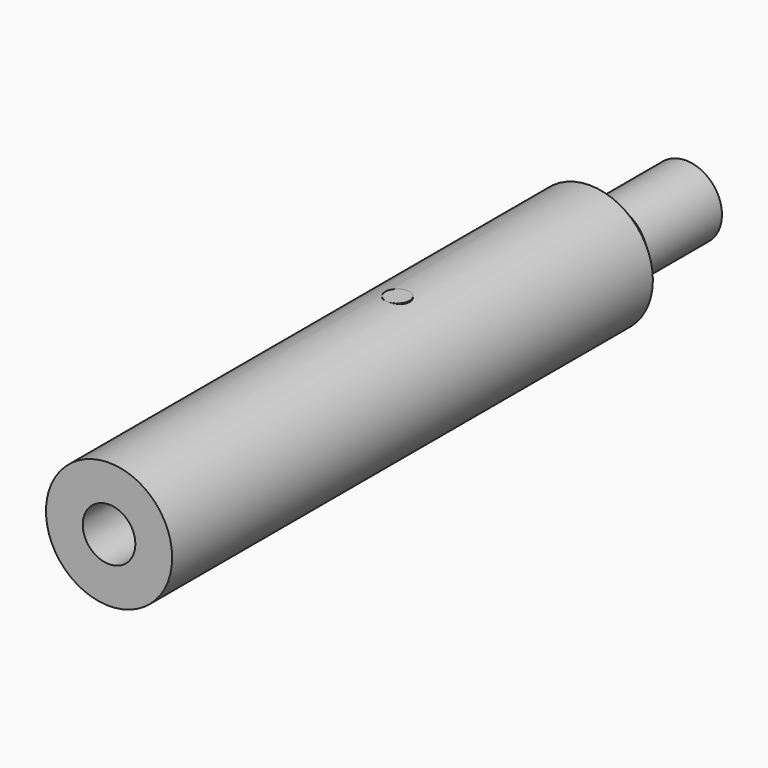
from build123d import *

# Parameters (mm, degrees)
F0_R      = 53.34
F0_R_2    = 22.225
F1_DEPTH  = 304.8
F4_R      = 53.34
F4_R_2    = 30.48
F5_DEPTH  = 101.6
F10_R     = 10.31875
F10_R_2   = 3.302
F11_DEPTH = 19.05
F12_DEPTH = 32.3616602869
F13_R     = 10.31875
F13_R_2   = 3.302
F14_DEPTH = 19.05
F15_DEPTH = 32.3616602869
F20_R     = 10.31875
F21_DEPTH = 19.05
F22_R     = 10.31875
F23_DEPTH = 19.05


with BuildPart() as f1:
    # F0 (on Front) → F1 (new body, symmetric)
    with BuildSketch(Plane.XZ):
        Circle(F0_R)
        Circle(F0_R_2, mode=Mode.SUBTRACT)
    extrude(amount=F1_DEPTH, both=True)

    # F4 (on offset) → F5 (cut)
    with BuildSketch(Plane(origin=(0, 304.8, 0), x_dir=(-1, 0, 0), z_dir=(0, 1, 0))):
        Circle(F4_R)
        Circle(F4_R_2, mode=Mode.SUBTRACT)
    extrude(amount=-F5_DEPTH, mode=Mode.SUBTRACT)

    # F6 (on Right) → F7 (revolve)
    with BuildSketch(Plane.YZ):
        Polygon((203.2, 53.34), (203.2, 30.48), (226.06, 30.48), align=None)
    revolve(axis=Axis((0, 101.6, 0), (0, 1, 0)))

    # F10 (on offset) → F11 (cut)
    with BuildSketch(Plane.XY.offset(53.34)):
        Circle(F10_R)
        Circle(F10_R_2, mode=Mode.SUBTRACT)
        Circle(F10_R_2)
    extrude(amount=-F11_DEPTH, mode=Mode.SUBTRACT)

    # F10 (on offset) → F12 (cut, up to face)
    with BuildSketch(Plane.XY.offset(53.34)):
        Circle(F10_R_2)
    extrude(amount=-F12_DEPTH, mode=Mode.SUBTRACT)

    # F13 (on offset) → F14 (cut)
    with BuildSketch(Plane.XY.offset(-53.34)):
        Circle(F13_R)
        Circle(F13_R_2, mode=Mode.SUBTRACT)
        Circle(F13_R_2)
    extrude(amount=F14_DEPTH, mode=Mode.SUBTRACT)

    # F13 (on offset) → F15 (cut, up to face)
    with BuildSketch(Plane.XY.offset(-53.34)):
        Circle(F13_R_2)
    extrude(amount=F15_DEPTH, mode=Mode.SUBTRACT)

    # F16 (on Right) → F17 (revolve, cut)
    with BuildSketch(Plane.YZ):
        Polygon((6.35, 34.29), (3.302, 34.29), (3.302, 29.21), align=None)
        Polygon((6.35, -34.29), (3.302, -29.21), (3.302, -34.29), align=None)
    revolve(axis=Axis((0, 0, 17.145), (0, 0, 1)), mode=Mode.SUBTRACT)


with BuildPart() as f19:
    # F18 (on Right) → F19 (revolve)
    with BuildSketch(Plane.YZ):
        Polygon((0, 29.21), (0, 34.29), (-6.35, 34.29), (-3.302, 29.21), align=None)
    revolve(axis=Axis((0, 0, 14.605), (0, 0, -1)))


with BuildPart() as f19b:
    # F18 (on Right) → F19, piece 2 (revolve)
    with BuildSketch(Plane.YZ):
        Polygon((0, -29.21), (-3.302, -29.21), (-6.35, -34.29), (0, -34.29), align=None)
    revolve(axis=Axis((0, 0, 14.605), (0, 0, -1)))


with BuildPart() as f21:
    # F20 (on offset) → F21 (new body, through all)
    with BuildSketch(Plane.XY.offset(53.34)):
        Circle(F20_R)
    extrude(amount=-F21_DEPTH)


with BuildPart() as f23:
    # F22 (on offset) → F23 (new body, through all)
    with BuildSketch(Plane.XY.offset(-53.34)):
        Circle(F22_R)
    extrude(amount=F23_DEPTH)


solid = Compound([f1.part, f19.part, f19b.part, f21.part, f23.part])
